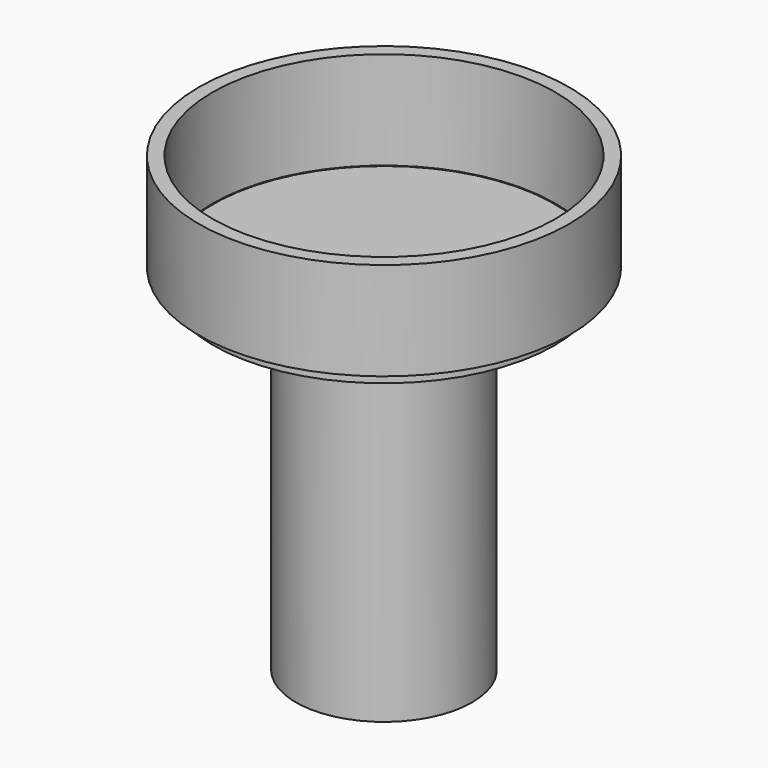
from build123d import *

# Parameters (mm, degrees)
F0_R     = 22.5
F0_R_2   = 19
F1_DEPTH = 87
F2_R     = 43.5
F3_DEPTH = 3.5
F4_R     = 6
F5_DEPTH = 90.501
F6_R     = 47.25
F6_R_2   = 43.75
F7_DEPTH = 25


with BuildPart() as f1:
    # F0 (on Top) → F1 (new body)
    with BuildSketch(Plane.XY):
        Circle(F0_R)
        Circle(F0_R_2, mode=Mode.SUBTRACT)
    extrude(amount=F1_DEPTH)

    # F2 (on face) → F3 (join)
    with BuildSketch(Plane.XY.offset(87)):
        Circle(F2_R)
    extrude(amount=F3_DEPTH)

    # F4 (on face) → F5 (cut, through all)
    with BuildSketch(Plane.XY.offset(90.5)):
        with Locations((0, -31.5)):
            Circle(F4_R)
    extrude(amount=-F5_DEPTH, mode=Mode.SUBTRACT)


with BuildPart() as f7:
    # F6 (on face) → F7 (new body)
    with BuildSketch(Plane.XY.offset(90.5)):
        Circle(F6_R)
        Circle(F6_R_2, mode=Mode.SUBTRACT)
    extrude(amount=F7_DEPTH)


solid = Compound([f1.part, f7.part])
